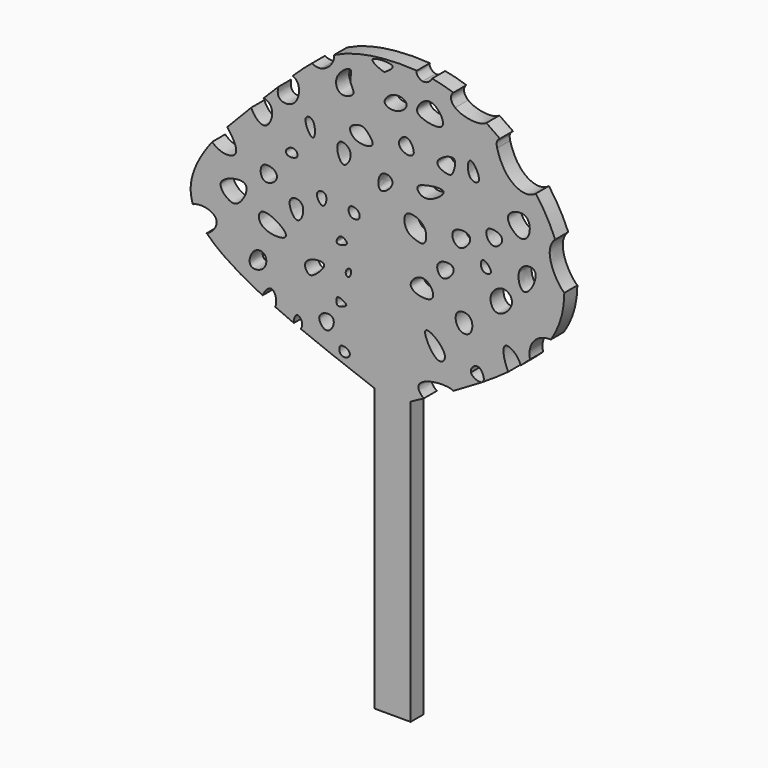
from build123d import *

# Parameters (mm, degrees)
F1_DEPTH = 1.8


with BuildPart() as f1:
    # F0 (on Front) → F1 (new body)
    with BuildSketch(Plane.XZ):
        with BuildLine():
            Line((-2, 13.1339312527), (-2, 18))
            Line((-2, 18), (0, 18))
            Line((0, 18), (2, 18))
            Line((2, 18), (2, 13.1339312527))
            add(Edge.make_bspline(
                [(3.4627824541, 13.9190015148), (2.9762773447, 13.6570630036), (2.4881386724, 13.3954971282), (2, 13.1339312527)],
                knots=[0.9890203032, 0.9890203032, 0.9890203032, 0.9890203032, 1, 1, 1, 1], degree=3))
            add(Edge.make_bspline(
                [(3.4627824541, 13.9190015148), (2.9749157457, 14.2383125504), (2.1769178217, 15.7744457367), (5.9554543884, 16.1552525838), (6.7234366462, 15.7083609333)],
                knots=[0.046536776, 0.046536776, 0.046536776, 0.046536776, 0.2181342508, 0.5417630376, 0.5417630376, 0.5417630376, 0.5417630376], degree=3))
            add(Edge.make_bspline(
                [(9.8584310917, 17.5590605008), (8.8546197116, 16.9327654388), (7.8030525434, 16.3173640568), (6.7234366462, 15.7083609333)],
                knots=[0.9389775195, 0.9389775195, 0.9389775195, 0.9389775195, 0.9641592549, 0.9641592549, 0.9641592549, 0.9641592549], degree=3))
            add(Edge.make_bspline(
                [(9.8584310917, 17.5590605008), (9.4984204809, 17.4227163147), (8.7700137175, 17.730182555), (8.6567280814, 18.134317879)],
                knots=[0.6927819196, 0.6927819196, 0.6927819196, 0.6927819196, 1, 1, 1, 1], degree=3))
            add(Edge.make_bspline(
                [(8.6567280814, 18.134317879), (8.5421822542, 18.5429488103), (9.6259820027, 19.612263855), (10.2571733428, 17.9134764792), (9.9737879987, 17.6312143726)],
                knots=[0, 0, 0, 0, 0.3106355788, 0.6545649857, 0.6545649857, 0.6545649857, 0.6545649857], degree=3))
            add(Edge.make_bspline(
                [(12.7798678688, 19.5288631074), (11.9046753743, 18.8825885944), (10.962959719, 18.2514888288), (9.9737879987, 17.6312143726)],
                knots=[0.9131049784, 0.9131049784, 0.9131049784, 0.9131049784, 0.9380111266, 0.9380111266, 0.9380111266, 0.9380111266], degree=3))
            add(Edge.make_bspline(
                [(12.3696103692, 21.8887813389), (12.0833155911, 21.5231305717), (12.3571938621, 20.3210288888), (12.7798678688, 19.5288631074)],
                knots=[0, 0, 0, 0, 0.2643471964, 0.2643471964, 0.2643471964, 0.2643471964], degree=3))
            add(Edge.make_bspline(
                [(14.1548118664, 20.6050556153), (13.8634219839, 21.5618172757), (12.7131723103, 22.3275727419), (12.3696103692, 21.8887813389)],
                knots=[0.6827757861, 0.6827757861, 0.6827757861, 0.6827757861, 1, 1, 1, 1], degree=3))
            add(Edge.make_bspline(
                [(15.2029053166, 21.5327361295), (14.8710453239, 21.2195163028), (14.521063158, 20.9104303657), (14.1548118664, 20.6050556153)],
                knots=[0.8880138547, 0.8880138547, 0.8880138547, 0.8880138547, 0.8994647796, 0.8994647796, 0.8994647796, 0.8994647796], degree=3))
            add(Edge.make_bspline(
                [(17.4728564688, 24.1911671199), (16.9136176077, 24.229917183), (15.303009132, 23.7768279608), (14.9907051573, 22.0698507604), (15.2029053166, 21.5327361295)],
                knots=[0.1356129793, 0.1356129793, 0.1356129793, 0.1356129793, 0.3145415346, 0.5364501667, 0.5364501667, 0.5364501667, 0.5364501667], degree=3))
            add(Edge.make_bspline(
                [(18.9676937005, 29.2153278292), (18.9619269017, 27.9697959048), (18.6381280856, 26.243483909), (17.7651289444, 24.642451231), (17.472856468, 24.1911671229)],
                knots=[0.8038392848, 0.8038392848, 0.8038392848, 0.8038392848, 0.8415914058, 0.8568414486, 0.8568414486, 0.8568414486, 0.8568414486], degree=3))
            add(Edge.make_bspline(
                [(17.9610731461, 34.0666206042), (17.637243185, 33.7965891444), (16.8650943917, 32.3100414693), (18.2011832819, 29.8416356004), (18.9676936951, 29.2153278259)],
                knots=[0.1277186446, 0.1277186446, 0.1277186446, 0.1277186446, 0.2527963199, 0.5175988578, 0.5175988578, 0.5175988578, 0.5175988578], degree=3))
            add(Edge.make_bspline(
                [(15.8282641982, 37.8525652521), (16.0243824024, 37.5853406361), (16.8502603719, 36.3961804369), (17.5418197467, 35.0994476353), (17.9610731461, 34.0666206042)],
                knots=[0.7126061898, 0.7126061898, 0.7126061898, 0.7126061898, 0.7222456425, 0.7545774408, 0.7545774408, 0.7545774408, 0.7545774408], degree=3))
            add(Edge.make_bspline(
                [(11.5574169904, 40.8636666834), (11.7406177401, 40.1063954492), (12.6783616315, 37.818162581), (15.0074819681, 37.1776277886), (15.8282641982, 37.8525652521)],
                knots=[0, 0, 0, 0, 0.2035653463, 0.3975491867, 0.3975491867, 0.3975491867, 0.3975491867], degree=3))
            add(Edge.make_bspline(
                [(11.8639611375, 41.88773036), (11.4446076863, 41.6135226148), (11.449232867, 41.3108522152), (11.5574169904, 40.8636666834)],
                knots=[0.8797901287, 0.8797901287, 0.8797901287, 0.8797901287, 1, 1, 1, 1], degree=3))
            add(Edge.make_bspline(
                [(10.3626602607, 42.9341230375), (10.8702148435, 42.6141453551), (11.3722954541, 42.2648028601), (11.8639611375, 41.88773036)],
                knots=[0.6373340489, 0.6373340489, 0.6373340489, 0.6373340489, 0.6563413111, 0.6563413111, 0.6563413111, 0.6563413111], degree=3))
            add(Edge.make_bspline(
                [(10.3626602607, 42.9341230375), (9.6374384655, 42.3670168151), (7.7434561628, 42.6250152853), (6.9163152948, 43.3002449572)],
                knots=[0.6998949255, 0.6998949255, 0.6998949255, 0.6998949255, 1, 1, 1, 1], degree=3))
            add(Edge.make_bspline(
                [(6.9163152948, 43.3002449572), (6.3891365953, 43.7306029701), (6.2953256815, 44.3304468654), (6.7234366462, 44.69480712)],
                knots=[0, 0, 0, 0, 0.1912721388, 0.1912721388, 0.1912721388, 0.1912721388], degree=3))
            add(Edge.make_bspline(
                [(4.3691100202, 45.3020731038), (5.1473764122, 45.1631668327), (5.9317786685, 44.9653784476), (6.7234366462, 44.69480712)],
                knots=[0.5626171657, 0.5626171657, 0.5626171657, 0.5626171657, 0.5922520028, 0.5922520028, 0.5922520028, 0.5922520028], degree=3))
            add(Edge.make_bspline(
                [(4.3691100289, 45.3020731022), (4.2055810407, 44.9231440236), (3.7449052268, 44.6141068325), (3.3194599673, 44.69480712)],
                knots=[0.7422164241, 0.7422164241, 0.7422164241, 0.7422164241, 1, 1, 1, 1], degree=3))
            add(Edge.make_bspline(
                [(3.3194599673, 44.69480712), (2.9256970616, 44.7694977623), (2.5621129375, 45.1780407223), (2.6842755301, 45.5167487262)],
                knots=[0, 0, 0, 0, 0.2385867691, 0.2385867691, 0.2385867691, 0.2385867691], degree=3))
            add(Edge.make_bspline(
                [(-6.4609188763, 44.0661110223), (-4.482749796, 45.0588208534), (-1.3844684949, 45.6030289795), (1.7828191009, 45.5879057532), (2.6842755301, 45.5167487262)],
                knots=[0.4182132898, 0.4182132898, 0.4182132898, 0.4182132898, 0.506418192, 0.5411145397, 0.5411145397, 0.5411145397, 0.5411145397], degree=3))
            add(Edge.make_bspline(
                [(-6.4609188763, 44.0661110223), (-6.3377873967, 43.4131188365), (-7.0352522427, 42.4733900307), (-7.8534465283, 42.3015207052)],
                knots=[0.7382851246, 0.7382851246, 0.7382851246, 0.7382851246, 1, 1, 1, 1], degree=3))
            add(Edge.make_bspline(
                [(-7.8534465283, 42.3015207052), (-8.2104839278, 42.2265216761), (-8.5905107319, 42.2977391147), (-8.9037844807, 42.4578075508)],
                knots=[0, 0, 0, 0, 0.1142051468, 0.1142051468, 0.1142051468, 0.1142051468], degree=3))
            add(Edge.make_bspline(
                [(-11.0413691078, 40.5320651628), (-10.3039075922, 41.2491067181), (-9.6034225382, 41.8933972111), (-8.9037844807, 42.4578075508)],
                knots=[0.3472217184, 0.3472217184, 0.3472217184, 0.3472217184, 0.3803956427, 0.3803956427, 0.3803956427, 0.3803956427], degree=3))
            add(Edge.make_bspline(
                [(-10.501800105, 40.1197187603), (-10.6287564176, 40.3361409118), (-10.8223782834, 40.4795698557), (-11.0413691078, 40.5320651628)],
                knots=[0, 0, 0, 0, 0.1013327244, 0.1013327244, 0.1013327244, 0.1013327244], degree=3))
            add(Edge.make_bspline(
                [(-12.6176818536, 38.9612897251), (-12.7002572891, 38.5991247613), (-12.6811128928, 37.5270481278), (-10.4187193625, 37.485436187), (-10.1621569888, 39.5407298746), (-10.501800105, 40.1197187603)],
                knots=[0.3811183043, 0.3811183043, 0.3811183043, 0.3811183043, 0.4941244421, 0.7289070423, 1, 1, 1, 1], degree=3))
            add(Edge.make_bspline(
                [(-14.2291048542, 37.3376719654), (-13.6611567652, 37.9048563489), (-13.1270679553, 38.4466645291), (-12.6176818536, 38.9612897251)],
                knots=[0.3035428947, 0.3035428947, 0.3035428947, 0.3035428947, 0.3245365127, 0.3245365127, 0.3245365127, 0.3245365127], degree=3))
            add(Edge.make_bspline(
                [(-14.2291048542, 37.3376719654), (-13.6933381626, 37.2674367998), (-12.8930113497, 36.4039676702), (-13.6504360825, 34.7061908435), (-14.2291048542, 34.6976444125)],
                knots=[0.5234676738, 0.5234676738, 0.5234676738, 0.5234676738, 0.7462807824, 1, 1, 1, 1], degree=3))
            add(Edge.make_bspline(
                [(-14.2291048542, 34.6976444125), (-14.7327413516, 34.6902061425), (-15.3692366574, 35.3610186203), (-15.5823643515, 35.9921604546)],
                knots=[0, 0, 0, 0, 0.2208210713, 0.2208210713, 0.2208210713, 0.2208210713], degree=3))
            add(Edge.make_bspline(
                [(-18.2522689678, 33.223740865), (-17.3911601071, 34.1748144612), (-16.4724334034, 35.1051592355), (-15.5823643515, 35.9921604546)],
                knots=[0.2565182608, 0.2565182608, 0.2565182608, 0.2565182608, 0.287454467, 0.287454467, 0.287454467, 0.287454467], degree=3))
            add(Edge.make_bspline(
                [(-18.2522689678, 33.223740865), (-17.6446691582, 32.4862783276), (-16.4517050228, 30.3063447774), (-18.9577429107, 30.3237937548), (-19.9156150313, 31.2439702677)],
                knots=[0.5439556966, 0.5439556966, 0.5439556966, 0.5439556966, 0.7164325041, 1, 1, 1, 1], degree=3))
            add(Edge.make_bspline(
                [(-22.0439995426, 24.4836843372), (-22.135096237, 24.7421223461), (-22.6662465058, 26.8515310355), (-21.4755449349, 29.2054747583), (-19.9156150313, 31.2439702677)],
                knots=[0.160970141, 0.160970141, 0.160970141, 0.160970141, 0.1702013731, 0.2352907323, 0.2352907323, 0.2352907323, 0.2352907323], degree=3))
            add(Edge.make_bspline(
                [(-22.0439995423, 24.4836843365), (-21.214041625, 24.9036026245), (-18.6056839467, 24.3364550443), (-19.746467779, 22.5196054868), (-20.5155140061, 22.1770833446)],
                knots=[0.2361840159, 0.2361840159, 0.2361840159, 0.2361840159, 0.5066827568, 0.7466349789, 0.7466349789, 0.7466349789, 0.7466349789], degree=3))
            add(Edge.make_bspline(
                [(-14.3478414782, 18.134317879), (-16.945937698, 19.4049031046), (-19.1077405266, 20.7374501183), (-20.5155140061, 22.1770833446)],
                knots=[0.0765825085, 0.0765825085, 0.0765825085, 0.0765825085, 0.1323546499, 0.1323546499, 0.1323546499, 0.1323546499], degree=3))
            add(Edge.make_bspline(
                [(-14.3478414782, 18.134317879), (-14.1306014119, 18.6774707953), (-13.1689671139, 19.7907696261), (-12.6784216562, 18.0286802168), (-12.9514011454, 17.475422107)],
                knots=[0, 0, 0, 0, 0.250220288, 0.5216215365, 0.5216215365, 0.5216215365, 0.5216215365], degree=3))
            add(Edge.make_bspline(
                [(-10.8945278465, 16.5744854494), (-11.5995400417, 16.8720442452), (-12.2866758552, 17.1721418203), (-12.9514011454, 17.475422107)],
                knots=[0.0533348957, 0.0533348957, 0.0533348957, 0.0533348957, 0.0668626866, 0.0668626866, 0.0668626866, 0.0668626866], degree=3))
            add(Edge.make_bspline(
                [(-10.8945278465, 16.5744854494), (-10.9186951111, 16.9658721452), (-10.5751677728, 17.9017173362), (-9.8449231093, 16.9446640657), (-10.038801074, 16.3953156378), (-10.1304421837, 16.2557560265)],
                knots=[0, 0, 0, 0, 0.264764598, 0.5171601285, 0.6378198475, 0.6378198475, 0.6378198475, 0.6378198475], degree=3))
            add(Edge.make_bspline(
                [(-2, 13.1339312527), (-4.779755842, 14.1646538183), (-7.5595116841, 15.1953763839), (-10.1304421942, 16.2557560364)],
                knots=[0, 0, 0, 0, 0.0484904548, 0.0484904548, 0.0484904548, 0.0484904548], degree=3))
        make_face()
        with BuildLine():
            add(Edge.make_bspline(
                [(-15.6488418579, 20.6050556153), (-15.9422178695, 20.9495670382), (-15.4724342004, 22.5107376184), (-13.8350550751, 22.4455513009), (-13.8659416108, 20.5303787679), (-15.3731059317, 20.2812589431), (-15.6488418579, 20.6050556153)],
                knots=[0, 0, 0, 0, 0.2711214008, 0.4958567331, 0.7451805614, 1, 1, 1, 1], degree=3))
        make_face(mode=Mode.SUBTRACT)
        with BuildLine():
            add(Edge.make_bspline(
                [(-14.3478414782, 24.8642675579), (-14.8981834202, 25.3278637144), (-14.8654305177, 27.3080476319), (-9.9221473796, 24.2379249432), (-13.6041025472, 24.2377579578), (-14.3478414782, 24.8642675579)],
                knots=[0, 0, 0, 0, 0.2627342357, 0.6449376929, 1, 1, 1, 1], degree=3))
        make_face(mode=Mode.SUBTRACT)
        with BuildLine():
            add(Edge.make_bspline(
                [(-16.9671699405, 26.2840054929), (-16.4200274012, 26.7345968923), (-15.1612760461, 29.1825384156), (-19.8693592955, 28.006486662), (-18.2051101811, 26.0712696828), (-17.3789162328, 25.944917733), (-16.9671699405, 26.2840054929)],
                knots=[0, 0, 0, 0, 0.2677966305, 0.5683098308, 0.7984724971, 1, 1, 1, 1], degree=3))
        make_face(mode=Mode.SUBTRACT)
        with BuildLine():
            add(Edge.make_bspline(
                [(-14.2291048542, 29.3936058879), (-14.5964369038, 29.6684911106), (-14.7578844173, 31.2587511838), (-12.6682683848, 30.8366244265), (-12.7180548722, 29.5359145305), (-13.8730195802, 29.1271369535), (-14.2291048542, 29.3936058879)],
                knots=[0, 0, 0, 0, 0.2636702497, 0.5280595037, 0.7444026646, 1, 1, 1, 1], degree=3))
        make_face(mode=Mode.SUBTRACT)
        with BuildLine():
            add(Edge.make_bspline(
                [(-7.3430202901, 17.0421991497), (-7.754521556, 17.0867685173), (-8.6089536211, 18.3217165996), (-6.7839043204, 18.9699652794), (-6.2468203497, 17.9107081552), (-6.9460276053, 16.9992011947), (-7.3430202901, 17.0421991497)],
                knots=[0, 0, 0, 0, 0.265736088, 0.527493806, 0.7436331507, 1, 1, 1, 1], degree=3))
        make_face(mode=Mode.SUBTRACT)
        with BuildLine():
            add(Edge.make_bspline(
                [(-5.646715872, 15.1641489938), (-5.8936145499, 15.3506343179), (-6.0211389605, 16.3040400766), (-4.7457414414, 16.0194775525), (-4.6051365578, 15.1615416872), (-5.3998170802, 14.9776635837), (-5.646715872, 15.1641489938)],
                knots=[0, 0, 0, 0, 0.2588698897, 0.5222327012, 0.7411299909, 1, 1, 1, 1], degree=3))
        make_face(mode=Mode.SUBTRACT)
        with BuildLine():
            add(Edge.make_bspline(
                [(-6.1010834761, 19.8895670474), (-6.2204768513, 20.0360724456), (-6.2591867011, 20.7852714082), (-5.6471948786, 20.6444788948), (-4.8009107667, 20.1640515595), (-5.6642109184, 19.8839437306), (-6.0059818092, 19.7728695542), (-6.1010834761, 19.8895670474)],
                knots=[0, 0, 0, 0, 0.2207703855, 0.4023901544, 0.6181109846, 0.8241474318, 1, 1, 1, 1], degree=3))
        make_face(mode=Mode.SUBTRACT)
        with BuildLine():
            add(Edge.make_bspline(
                [(-9.2816529796, 21.8887813389), (-9.5607182866, 22.0661331391), (-10.144008643, 23.3689739181), (-6.6987039112, 23.8517371805), (-8.4149506932, 22.0730409167), (-9.031070852, 21.729531191), (-9.2816529796, 21.8887813389)],
                knots=[0, 0, 0, 0, 0.2301406244, 0.5324220946, 0.7933489908, 1, 1, 1, 1], degree=3))
        make_face(mode=Mode.SUBTRACT)
        with BuildLine():
            add(Edge.make_bspline(
                [(-10.501800105, 26.6851615161), (-10.9898118034, 26.6823023838), (-12.0441465688, 28.9411377119), (-9.31803812, 28.8080006694), (-10.0348657967, 26.6878971615), (-10.501800105, 26.6851615161)],
                knots=[0, 0, 0, 0, 0.359448153, 0.6560765341, 1, 1, 1, 1], degree=3))
        make_face(mode=Mode.SUBTRACT)
        with BuildLine():
            add(Edge.make_bspline(
                [(-7.6809003949, 29.0116965771), (-8.0059584634, 28.9575200765), (-8.8505465177, 30.2929285056), (-6.9900128203, 30.6030192371), (-7.355842199, 29.0658730989), (-7.6809003949, 29.0116965771)],
                knots=[0, 0, 0, 0, 0.3494245159, 0.6505753471, 1, 1, 1, 1], degree=3))
        make_face(mode=Mode.SUBTRACT)
        with BuildLine():
            add(Edge.make_bspline(
                [(-4.9197291955, 22.9792613536), (-5.060968618, 22.9757184377), (-5.3374856095, 23.440307521), (-4.7115810276, 24.0396169968), (-4.4413330884, 23.5147794587), (-4.7561328503, 22.9833650811), (-4.9197291955, 22.9792613536)],
                knots=[0, 0, 0, 0, 0.2399316476, 0.5105852886, 0.7220893433, 1, 1, 1, 1], degree=3))
        make_face(mode=Mode.SUBTRACT)
        with BuildLine():
            add(Edge.make_bspline(
                [(-6.1010834761, 25.8872117847), (-6.1965292155, 25.9628554606), (-6.1373948198, 26.3220554868), (-5.7009947815, 26.8974635646), (-4.8314855735, 26.2843126037), (-5.3215228129, 25.8854560736), (-5.9690163458, 25.7825445333), (-6.1010834761, 25.8872117847)],
                knots=[0, 0, 0, 0, 0.1655417728, 0.3701405013, 0.5941532921, 0.770941825, 1, 1, 1, 1], degree=3))
        make_face(mode=Mode.SUBTRACT)
        with BuildLine():
            add(Edge.make_bspline(
                [(-4.6338997781, 29.0116965771), (-4.8815131298, 29.2408328046), (-4.9527937586, 30.206404476), (-3.6316358542, 29.918100715), (-3.5085882378, 28.8266249434), (-4.3867144598, 28.7829564427), (-4.6338997781, 29.0116965771)],
                knots=[0, 0, 0, 0, 0.2552996106, 0.5119096612, 0.7451417096, 1, 1, 1, 1], degree=3))
        make_face(mode=Mode.SUBTRACT)
        with BuildLine():
            add(Edge.make_bspline(
                [(-11.4802457392, 32.6229557395), (-11.7110500434, 32.6982783009), (-11.9844400298, 33.1331708786), (-10.8402383122, 33.8454224773), (-10.1582472854, 32.7139776697), (-11.1609537722, 32.5187553917), (-11.4802457392, 32.6229557395)],
                knots=[0, 0, 0, 0, 0.2028462411, 0.4778870542, 0.7193848895, 1, 1, 1, 1], degree=3))
        make_face(mode=Mode.SUBTRACT)
        with BuildLine():
            add(Edge.make_bspline(
                [(-8.7938793004, 35.2670885623), (-8.4877782287, 35.3184342759), (-8.4537347444, 37.3213792613), (-10.130258498, 37.1406508983), (-9.1094990294, 35.2141461791), (-8.7938793004, 35.2670885623)],
                knots=[0, 0, 0, 0, 0.3704607354, 0.61801925, 1, 1, 1, 1], degree=3))
        make_face(mode=Mode.SUBTRACT)
        with BuildLine():
            add(Edge.make_bspline(
                [(-5.3707058541, 33.7623953819), (-5.7622583836, 33.7661065955), (-6.3316541058, 35.1952429321), (-5.7460981292, 36.2176157708), (-4.1178061745, 35.2787849584), (-4.9829266402, 33.7587199326), (-5.3707058541, 33.7623953819)],
                knots=[0, 0, 0, 0, 0.2745661595, 0.4798784559, 0.7280797811, 1, 1, 1, 1], degree=3))
        make_face(mode=Mode.SUBTRACT)
        with BuildLine():
            add(Edge.make_bspline(
                [(-2.9631997459, 37.93791309), (-3.1879252329, 38.1273298252), (-3.4855011392, 38.2512258321), (-5.0543279945, 37.8397568071), (-4.2322207994, 36.2222114457), (-1.4560611767, 36.4137904417), (-2.6292477376, 37.6564314477), (-2.9631997459, 37.93791309)],
                knots=[0, 0, 0, 0, 0.1446419774, 0.3402310992, 0.5422154344, 0.7850556273, 1, 1, 1, 1], degree=3))
        make_face(mode=Mode.SUBTRACT)
        with BuildLine():
            add(Edge.make_bspline(
                [(-4.6338997781, 43.2419516146), (-4.8649192943, 43.3907202772), (-6.6425577286, 42.2050777925), (-5.9400800341, 40.0327990649), (-3.8001974911, 40.9638331029), (-4.940994577, 41.9559010325), (-4.4516701261, 43.1246019549), (-4.6338997781, 43.2419516146)],
                knots=[0, 0, 0, 0, 0.2298631937, 0.4427689144, 0.6425972501, 0.8186824624, 1, 1, 1, 1], degree=3))
        make_face(mode=Mode.SUBTRACT)
        with BuildLine():
            add(Edge.make_bspline(
                [(5.0598732196, 18.134317879), (4.3076864676, 18.408288476), (2.3981580698, 22.0912170776), (6.500679411, 19.0763809128), (5.5198594684, 17.9667760992), (5.0598732196, 18.134317879)],
                knots=[0, 0, 0, 0, 0.3872027228, 0.7632131548, 1, 1, 1, 1], degree=3))
        make_face(mode=Mode.SUBTRACT)
        with BuildLine():
            add(Edge.make_bspline(
                [(2.0431568846, 24.3297386914), (1.825654416, 24.8729589408), (3.592418876, 26.4764311276), (5.397860165, 23.1746385269), (2.2885933627, 23.7167522471), (2.0431568846, 24.3297386914)],
                knots=[0, 0, 0, 0, 0.3190772618, 0.6399433998, 1, 1, 1, 1], degree=3))
        make_face(mode=Mode.SUBTRACT)
        with BuildLine():
            add(Edge.make_bspline(
                [(2.6232944801, 29.0116965771), (2.2182294793, 29.1429463519), (1.357934983, 29.4735863152), (1.0789923096, 31.8385215707), (3.9140592872, 30.9863218544), (3.7348346079, 28.6914282283), (2.956245103, 28.9038134122), (2.6232944801, 29.0116965771)],
                knots=[0, 0, 0, 0, 0.1895541982, 0.3954032818, 0.6301306067, 0.8441924427, 1, 1, 1, 1], degree=3))
        make_face(mode=Mode.SUBTRACT)
        with BuildLine():
            add(Edge.make_bspline(
                [(7.3804249987, 21.8887813389), (6.9790750166, 22.261542415), (6.6755704377, 23.8240183494), (8.9562215668, 23.8291524276), (8.8525237251, 21.5670708472), (7.7235135195, 21.5701316519), (7.3804249987, 21.8887813389)],
                knots=[0, 0, 0, 0, 0.2641394384, 0.5114864995, 0.7742040283, 1, 1, 1, 1], degree=3))
        make_face(mode=Mode.SUBTRACT)
        with BuildLine():
            add(Edge.make_bspline(
                [(5.581997335, 26.2840054929), (5.079175555, 26.3234375964), (4.3780213225, 28.0358811175), (7.6822232025, 28.0980494399), (6.1481832128, 26.2396042737), (5.581997335, 26.2840054929)],
                knots=[0, 0, 0, 0, 0.3107474868, 0.6500930437, 1, 1, 1, 1], degree=3))
        make_face(mode=Mode.SUBTRACT)
        with BuildLine():
            add(Edge.make_bspline(
                [(11.5574169904, 24.8642675579), (11.0302740339, 24.9400331886), (10.3712888543, 26.4598057672), (12.335679495, 27.9209067401), (13.8065777293, 26.2365532638), (12.173151728, 24.7757687357), (11.5574169904, 24.8642675579)],
                knots=[0, 0, 0, 0, 0.2385572033, 0.4953867601, 0.7213508116, 1, 1, 1, 1], degree=3))
        make_face(mode=Mode.SUBTRACT)
        with BuildLine():
            add(Edge.make_bspline(
                [(9.9737879987, 28.4487176687), (9.6727636792, 28.731446772), (9.7097526513, 30.1741022702), (11.4650810602, 28.3676970279), (10.2524742654, 28.1869689886), (9.9737879987, 28.4487176687)],
                knots=[0, 0, 0, 0, 0.3295161592, 0.6949361821, 1, 1, 1, 1], degree=3))
        make_face(mode=Mode.SUBTRACT)
        with BuildLine():
            add(Edge.make_bspline(
                [(15.7344099134, 30.1891304553), (15.4860336149, 30.7077741786), (13.3642800409, 30.4434043587), (14.403362268, 26.3554887162), (16.0467265367, 29.536970578), (15.7344099134, 30.1891304553)],
                knots=[0, 0, 0, 0, 0.294178922, 0.6300896338, 1, 1, 1, 1], degree=3))
        make_face(mode=Mode.SUBTRACT)
        with BuildLine():
            add(Edge.make_bspline(
                [(-1.3080390636, 32.5962603092), (-1.711416161, 32.7759558625), (-1.568259614, 34.8789505685), (0.8180007713, 33.9311533428), (-0.8908635609, 32.4104178724), (-1.3080390636, 32.5962603092)],
                knots=[0, 0, 0, 0, 0.344966064, 0.6432336093, 1, 1, 1, 1], degree=3))
        make_face(mode=Mode.SUBTRACT)
        with BuildLine():
            add(Edge.make_bspline(
                [(1.5508742072, 37.0334424078), (1.1295470553, 37.1279387151), (0.2786679523, 37.7623650295), (1.6466426189, 39.2913077297), (2.7398310854, 37.1409509365), (1.9076245796, 36.9534295421), (1.5508742072, 37.0334424078)],
                knots=[0, 0, 0, 0, 0.2505256226, 0.5009532353, 0.7878724198, 1, 1, 1, 1], degree=3))
        make_face(mode=Mode.SUBTRACT)
        with BuildLine():
            add(Edge.make_bspline(
                [(3.7255561911, 33.4379039705), (3.136286234, 33.4157564845), (2.3607546503, 34.2478135669), (3.5855273272, 34.772185307), (6.802501303, 35.1710958166), (4.5374697701, 33.4684194318), (3.7255561911, 33.4379039705)],
                knots=[0, 0, 0, 0, 0.2171775895, 0.4231578794, 0.7007662925, 1, 1, 1, 1], degree=3))
        make_face(mode=Mode.SUBTRACT)
        with BuildLine():
            add(Edge.make_bspline(
                [(7.3804249987, 29.841048643), (6.8168898585, 29.8831975404), (5.9394199772, 31.7562016267), (9.5469207741, 31.7174046912), (7.9913366593, 29.7953562787), (7.3804249987, 29.841048643)],
                knots=[0, 0, 0, 0, 0.3157403305, 0.657715312, 1, 1, 1, 1], degree=3))
        make_face(mode=Mode.SUBTRACT)
        with BuildLine():
            add(Edge.make_bspline(
                [(6.2201498076, 36.5706458688), (5.7830420838, 36.5678906239), (3.879423921, 37.2842616383), (7.3136827174, 39.0352674643), (6.7378070914, 36.9391917876), (6.5163420348, 36.5725128733), (6.2201498076, 36.5706458688)],
                knots=[0, 0, 0, 0, 0.2651786326, 0.5746786903, 0.8203100849, 1, 1, 1, 1], degree=3))
        make_face(mode=Mode.SUBTRACT)
        with BuildLine():
            add(Edge.make_bspline(
                [(9.526935406, 37.0334424078), (9.6835262935, 37.5412487262), (8.2997367325, 39.9073971967), (8.1754459651, 36.6620935128), (9.4181314315, 36.6806035765), (9.526935406, 37.0334424078)],
                knots=[0, 0, 0, 0, 0.3801359417, 0.735870318, 1, 1, 1, 1], degree=3))
        make_face(mode=Mode.SUBTRACT)
        with BuildLine():
            add(Edge.make_bspline(
                [(0.4975902266, 40.8720634878), (-0.0984876896, 40.728579125), (-1.4938397217, 41.1258084457), (0.1901586534, 42.7745582564), (2.1255594358, 41.9899414519), (1.1035172613, 41.0179186723), (0.4975902266, 40.8720634878)],
                knots=[0, 0, 0, 0, 0.2467486159, 0.5065322234, 0.7491743058, 1, 1, 1, 1], degree=3))
        make_face(mode=Mode.SUBTRACT)
        with BuildLine():
            add(Edge.make_bspline(
                [(-1.0823353659, 44.2576184869), (-1.4337798, 44.3630533651), (-3.4857679251, 45.2754716845), (1.0283406532, 45.4295892235), (-0.8124470484, 44.2739826681), (-0.8954267556, 44.2015450805), (-1.0823353659, 44.2576184869)],
                knots=[0, 0, 0, 0, 0.2716539622, 0.6185842752, 0.8555263374, 1, 1, 1, 1], degree=3))
        make_face(mode=Mode.SUBTRACT)
        with BuildLine():
            add(Edge.make_bspline(
                [(4.2476803064, 42.9521650076), (3.5566580009, 43.093792481), (2.3909389787, 41.8705500263), (3.0946934881, 40.9199727238), (6.5687793893, 40.3956239514), (5.011037696, 42.7957122021), (4.2476803064, 42.9521650076)],
                knots=[0, 0, 0, 0, 0.2545461188, 0.4370128351, 0.7188084101, 1, 1, 1, 1], degree=3))
        make_face(mode=Mode.SUBTRACT)
        with BuildLine():
            add(Edge.make_bspline(
                [(12.0795415714, 32.2776287794), (11.8975776039, 32.7682077803), (9.7116994356, 33.2273363783), (10.9573527052, 30.4508039724), (12.2482873529, 31.8226863093), (12.0795415714, 32.2776287794)],
                knots=[0, 0, 0, 0, 0.3466778969, 0.6785054018, 1, 1, 1, 1], degree=3))
        make_face(mode=Mode.SUBTRACT)
        with BuildLine():
            add(Edge.make_bspline(
                [(14.6321486682, 35.2943427861), (14.0557548545, 35.6057878041), (11.8270199417, 34.9603142066), (13.9537597906, 32.4804472088), (15.3275334969, 33.408489972), (15.1839541195, 34.9961836896), (14.6321486682, 35.2943427861)],
                knots=[0, 0, 0, 0, 0.2645167571, 0.539731541, 0.7467672535, 1, 1, 1, 1], degree=3))
        make_face(mode=Mode.SUBTRACT)
        Polygon((0, 18), (-2, 18), (-2, 13.1339312527), (-2, -18), (2, -18), (2, 13.1339312527), (2, 18), align=None)
    extrude(amount=F1_DEPTH)


solid = f1.part
